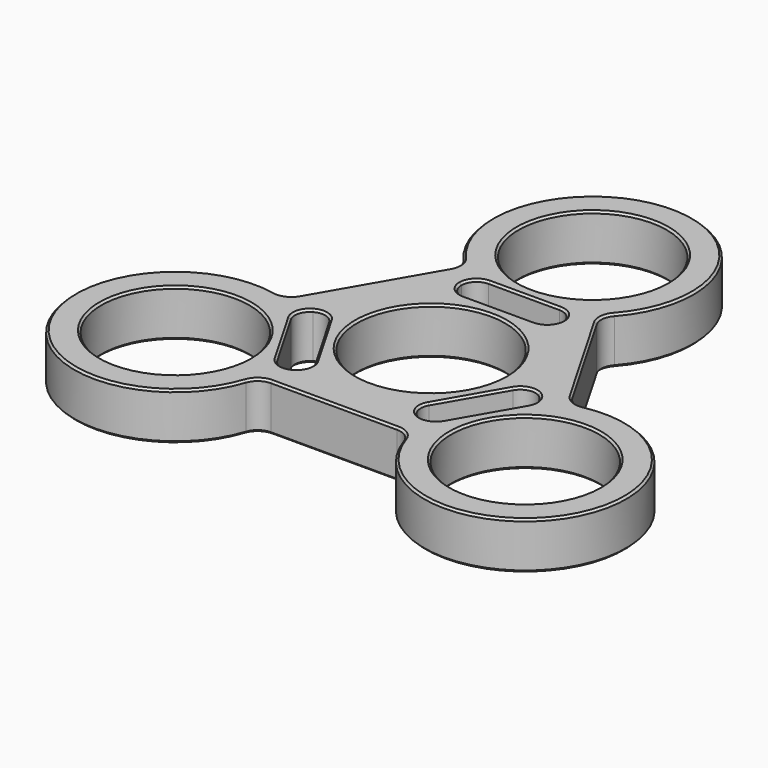
from build123d import *

# Parameters (mm, degrees)
F0_R     = 11
F1_DEPTH = 7
F2_R     = 2.5
F4_DEPTH = 25
F5_SIZE  = 0.3


with BuildPart() as f1:
    # F0 (on Top) → F1 (new body)
    with BuildSketch(Plane.XY):
        with BuildLine():
            Line((21.230369, -0.772078), (9.946545, 18.772078))
            ThreePointArc((9.946545, 18.772078), (0, 45), (-9.946545, 18.772078))
            Line((-9.946545, 18.772078), (-21.230369, -0.772078))
            ThreePointArc((-21.230369, -0.772078), (-38.971143, -22.5), (-11.283824, -18))
            Line((-11.283824, -18), (11.283824, -18))
            ThreePointArc((11.283824, -18), (38.971143, -22.5), (21.230369, -0.772078))
        make_face()
        with Locations((-25.980762, -15)):
            Circle(F0_R, mode=Mode.SUBTRACT)
        with Locations((25.980762, -15)):
            Circle(F0_R, mode=Mode.SUBTRACT)
        Circle(F0_R, mode=Mode.SUBTRACT)
        with Locations((0, 30)):
            Circle(F0_R, mode=Mode.SUBTRACT)
    extrude(amount=F1_DEPTH)

    # F2
    f2_edges = [f1.edges().sort_by_distance(p)[0] for p in [
        (11.283824, -18, 3.5),
        (-11.283824, -18, 3.5),
        (-21.230369, -0.772078, 3.5),
        (9.946545, 18.772078, 3.5),
        (21.230369, -0.772078, 3.5),
        (-9.946545, 18.772078, 3.5),
    ]]
    fillet(f2_edges, radius=F2_R)

    # F3 (on face) → F4 (cut)
    with BuildSketch(Plane(origin=(0, 0, 0), x_dir=(1, 0, 0), z_dir=(0, 0, -1))):
        with BuildLine():
            ThreePointArc((7.5, -15), (6.84099, -13.40901), (5.25, -12.75))
            Line((5.25, -12.75), (-5.25, -12.75))
            ThreePointArc((-5.25, -12.75), (-6.84099, -13.40901), (-7.5, -15))
            ThreePointArc((-7.5, -15), (-6.84099, -16.59099), (-5.25, -17.25))
            Line((-5.25, -17.25), (5.25, -17.25))
            ThreePointArc((5.25, -17.25), (6.84099, -16.59099), (7.5, -15))
        make_face()
        with BuildLine():
            ThreePointArc((13.666824, 1.828367), (15.033038, 0.780034), (16.740381, 1.004809))
            ThreePointArc((16.740381, 1.004809), (17.788714, 2.371024), (17.563938, 4.078367))
            Line((17.563938, 4.078367), (12.313938, 13.171633))
            ThreePointArc((12.313938, 13.171633), (10.947724, 14.219966), (9.240381, 13.995191))
            ThreePointArc((9.240381, 13.995191), (8.192048, 12.628976), (8.416824, 10.921633))
            Line((8.416824, 10.921633), (13.666824, 1.828367))
        make_face()
        with BuildLine():
            ThreePointArc((-8.416824, 10.921633), (-8.192048, 12.628976), (-9.240381, 13.995191))
            ThreePointArc((-9.240381, 13.995191), (-10.947724, 14.219966), (-12.313938, 13.171633))
            Line((-12.313938, 13.171633), (-17.563938, 4.078367))
            ThreePointArc((-17.563938, 4.078367), (-17.788714, 2.371024), (-16.740381, 1.004809))
            ThreePointArc((-16.740381, 1.004809), (-15.033038, 0.780034), (-13.666824, 1.828367))
            Line((-13.666824, 1.828367), (-8.416824, 10.921633))
        make_face()
    extrude(amount=-F4_DEPTH, mode=Mode.SUBTRACT)

    # F5
    f5_edges = [f1.edges().sort_by_distance(p)[0] for p in [
        (15.588457, 9, 0),
        (21.414108, -0.143541, 0),
        (10.582744, 18.616932, 0),
        (38.971143, -22.5, 0),
        (0, 45, 0),
        (10.831364, -18.473391, 0),
        (-10.582744, 18.616932, 0),
        (0, -18, 0),
        (-15.588457, 9, 0),
        (-10.831364, -18.473391, 0),
        (-21.414108, -0.143541, 0),
        (-38.971143, -22.5, 0),
        (-36.980762, -15, 0),
        (-9.240381, -13.995191, 0),
        (-11.041824, -6.375, 0),
        (-16.740381, -1.004809, 0),
        (-14.938938, -8.625, 0),
        (14.980762, -15, 0),
        (9.240381, -13.995191, 0),
        (14.938938, -8.625, 0),
        (16.740381, -1.004809, 0),
        (11.041824, -6.375, 0),
        (-11, 0, 0),
        (7.5, 15, 0),
        (0, 17.25, 0),
        (-7.5, 15, 0),
        (0, 12.75, 0),
        (-11, 30, 0),
        (15.588457, 9, 7),
        (21.414108, -0.143541, 7),
        (10.582744, 18.616932, 7),
        (38.971143, -22.5, 7),
        (0, 45, 7),
        (10.831364, -18.473391, 7),
        (-10.582744, 18.616932, 7),
        (0, -18, 7),
        (-15.588457, 9, 7),
        (-10.831364, -18.473391, 7),
        (-21.414108, -0.143541, 7),
        (-38.971143, -22.5, 7),
        (-36.980762, -15, 7),
        (-11.041824, -6.375, 7),
        (-16.740381, -1.004809, 7),
        (-14.938938, -8.625, 7),
        (-9.240381, -13.995191, 7),
        (14.980762, -15, 7),
        (11.041824, -6.375, 7),
        (9.240381, -13.995191, 7),
        (14.938938, -8.625, 7),
        (16.740381, -1.004809, 7),
        (-11, 0, 7),
        (0, 17.25, 7),
        (-7.5, 15, 7),
        (0, 12.75, 7),
        (7.5, 15, 7),
        (-11, 30, 7),
    ]]
    chamfer(f5_edges, length=F5_SIZE)


solid = f1.part
